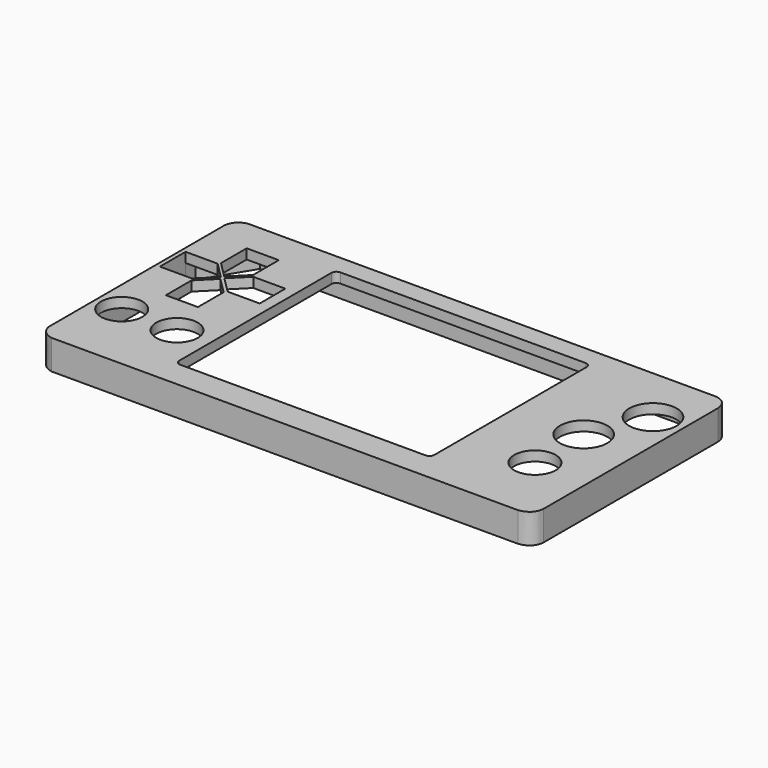
from build123d import *

# Parameters (mm, degrees)
SKETCH004_R     = 4.2
SKETCH004_R_2   = 4.8
SKETCH004_R_3   = 1.518979
SKETCH004_R_4   = 1.54166
SKETCH004_R_5   = 1.514434
SKETCH004_R_6   = 1.53413
SKETCH004_W     = 51.669447
SKETCH004_H     = 40.515184
PAD004_DEPTH    = 6
POCKET_DEPTH    = 4
FILLET002_R     = 1
SKETCH006_R     = 1.977075
SKETCH006_R_2   = 1.924832
SKETCH006_R_3   = 1.937522
SKETCH006_R_4   = 2.033894
POCKET001_DEPTH = 1
SKETCH007_R     = 2.076166
SKETCH007_R_2   = 2.097374
SKETCH007_R_3   = 2.246485
SKETCH007_R_4   = 2.27026
PAD005_DEPTH    = 1


with BuildPart() as part:
    # Sketch004 → Pad004 (new body)
    with BuildSketch(Plane.XY):
        with BuildLine():
            Line((-47.572803, 25.088316), (47.196522, 25.088316))
            add(Edge.make_bspline(
                [(47.196522, 25.088316), (49.583878, 24.67317), (49.843609, 22.181658)],
                knots=[0, 0, 0, 1, 1, 1], degree=2))
            Line((49.843609, 22.181658), (49.843609, -21.958458))
            add(Edge.make_bspline(
                [(49.843609, -21.958458), (49.613785, -24.485321), (46.959763, -24.855799)],
                knots=[0, 0, 0, 1, 1, 1], degree=2))
            Line((46.959763, -24.855799), (-47.489712, -24.855799))
            add(Edge.make_bspline(
                [(-47.489712, -24.855799), (-49.726002, -24.366434), (-50.217018, -22.253706)],
                knots=[0, 0, 0, 1, 1, 1], degree=2))
            Line((-50.217018, -22.253706), (-50.217018, 22.362692))
            add(Edge.make_bspline(
                [(-50.217018, 22.362692), (-49.912418, 24.645672), (-47.572803, 25.088316)],
                knots=[0, 0, 0, 1, 1, 1], degree=2))
        make_face()
        Polygon((-42.563313, 18.368522), (-36.063313, 18.368522), (-36.063313, 11.868522), (-39.313313, 8.618522), (-42.563313, 11.868522), align=None, mode=Mode.SUBTRACT)
        Polygon((-38.898651, 8.147736), (-35.648651, 11.397736), (-29.148651, 11.397736), (-29.148651, 4.897736), (-35.648651, 4.897736), align=None, mode=Mode.SUBTRACT)
        Polygon((-39.254463, 7.585952), (-36.004463, 4.335952), (-36.004463, -2.164048), (-42.504463, -2.164048), (-42.504463, 4.335952), align=None, mode=Mode.SUBTRACT)
        Polygon((-39.610279, 8.14501), (-42.860279, 4.89501), (-49.360279, 4.89501), (-49.360279, 11.39501), (-42.860279, 11.39501), align=None, mode=Mode.SUBTRACT)
        with Locations((-44.968281, -10.264997)):
            Circle(SKETCH004_R, mode=Mode.SUBTRACT)
        with Locations((-33.627011, -10.428595)):
            Circle(SKETCH004_R, mode=Mode.SUBTRACT)
        with Locations((43.730999, 13.356121)):
            Circle(SKETCH004_R_2, mode=Mode.SUBTRACT)
        with Locations((38.86813, 1.894801)):
            Circle(SKETCH004_R_2, mode=Mode.SUBTRACT)
        with Locations((38.891018, -10.470211)):
            Circle(SKETCH004_R, mode=Mode.SUBTRACT)
        with Locations((46.758968, 21.917048)):
            Circle(SKETCH004_R_3, mode=Mode.SUBTRACT)
        with Locations((46.767654, -21.803801)):
            Circle(SKETCH004_R_4, mode=Mode.SUBTRACT)
        with Locations((-47.11446, 21.935822)):
            Circle(SKETCH004_R_5, mode=Mode.SUBTRACT)
        with Locations((-47.138157, -21.794628)):
            Circle(SKETCH004_R_6, mode=Mode.SUBTRACT)
        with Locations((-1.010669, 0.925887)):
            Rectangle(SKETCH004_W, SKETCH004_H, mode=Mode.SUBTRACT)
    extrude(amount=PAD004_DEPTH)

    # Sketch005 (on Face42 of Pad004) → Pocket (cut)
    with BuildSketch(Plane(origin=(0, 0, 0), x_dir=(1, 0, 0), z_dir=(0, 0, -1))):
        Polygon((-49.347778, 15.974498), (-30.138617, 15.974498), (-30.138617, 22.584615), (42.326723, 22.584615), (47.125389, 18.800341), (47.125389, -7.181559), (48.931736, -7.181559), (48.931736, -18.709139), (47.194054, -18.709139), (43.481785, -23.182058), (-43.71611, -23.182058), (-49.347778, -13.90698), align=None)
    extrude(amount=-POCKET_DEPTH, mode=Mode.SUBTRACT)

    # Fillet002
    fillet002_edges = [part.edges().sort_by_distance(p)[0] for p in [
        (-26.845392, 21.183479, 5),
        (-26.845392, -19.331705, 5),
        (24.824055, -19.331705, 5),
        (24.824055, 21.183479, 5),
    ]]
    fillet(fillet002_edges, radius=FILLET002_R)

    # Sketch006 (on Face1 of Fillet002) → Pocket001 (cut)
    with BuildSketch(Plane.XY.offset(6)):
        with Locations((-47.123535, 21.901525)):
            Circle(SKETCH006_R)
        with Locations((46.745956, 21.922697)):
            Circle(SKETCH006_R_2)
        with Locations((46.77578, -21.811125)):
            Circle(SKETCH006_R_3)
        with Locations((-47.121822, -21.801273)):
            Circle(SKETCH006_R_4)
    extrude(amount=-POCKET001_DEPTH, mode=Mode.SUBTRACT)

    # Sketch007 (on Face50 of Pocket001) → Pad005 (join)
    with BuildSketch(Plane.XY.offset(5)):
        with Locations((46.794399, -21.825701)):
            Circle(SKETCH007_R)
        with Locations((46.828327, 21.859865)):
            Circle(SKETCH007_R_2)
        with Locations((-47.145874, 21.87035)):
            Circle(SKETCH007_R_3)
        with Locations((-47.14336, -21.791445)):
            Circle(SKETCH007_R_4)
    extrude(amount=PAD005_DEPTH)


with BuildPart() as part_1:
    # Body001 placement: moved
    add(part.part.moved(Location((0, 0, 1))))


solid = part_1.part
